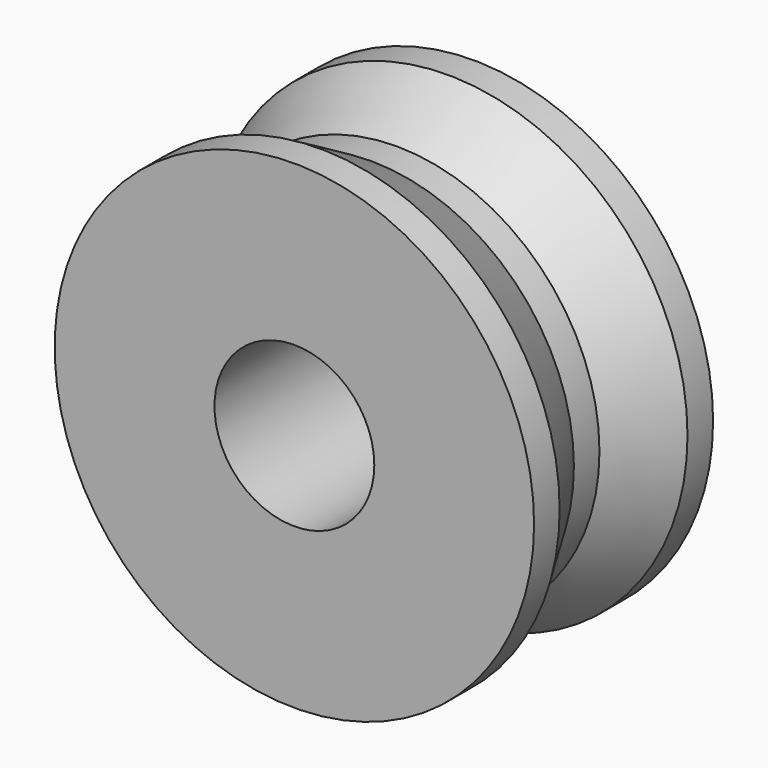
from build123d import *


with BuildPart() as f1:
    # F0 (on Top) → F1 (revolve)
    with BuildSketch(Plane.XY):
        Polygon((5, 0), (5, -7), (15, -7), (15, -5), (12.690599, -1), (12.690599, 1), (15, 5), (15, 7), (5, 7), align=None)
    revolve(axis=Axis((0, 0, 0), (0, -1, 0)))


solid = f1.part
